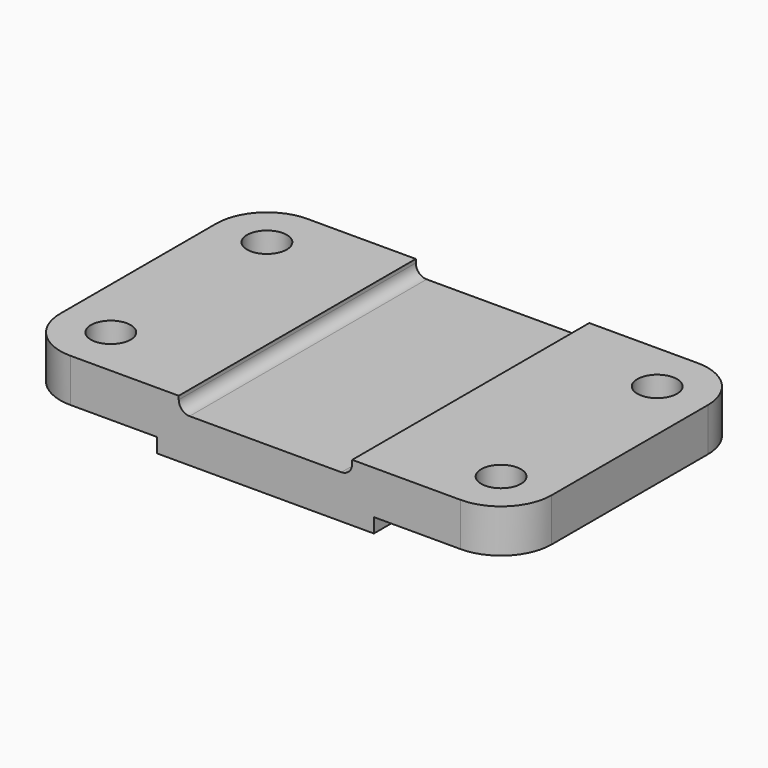
from build123d import *

# Parameters (mm, degrees)
F0_R     = 5.5
F1_DEPTH = 16
F2_W     = 38
F2_H     = 4
F3_DEPTH = 82.001
F5_DEPTH = 82.001


with BuildPart() as f1:
    # F0 (on Top) → F1 (new body)
    with BuildSketch(Plane.XY):
        with BuildLine():
            Line((-54, 0), (0, 0))
            Line((0, 0), (0, 82))
            Line((0, 82), (-54, 82))
            ThreePointArc((-54, 82), (-63.899495, 77.899495), (-68, 68))
            Line((-68, 68), (-68, 14))
            ThreePointArc((-68, 14), (-63.899495, 4.100505), (-54, 0))
        make_face()
        with Locations((-54, 14)):
            Circle(F0_R, mode=Mode.SUBTRACT)
        with Locations((-54, 68)):
            Circle(F0_R, mode=Mode.SUBTRACT)
    extrude(amount=F1_DEPTH)

    # F2 (on Front) → F3 (cut, through all)
    with BuildSketch(Plane.XZ):
        with Locations((-49, 2)):
            Rectangle(F2_W, F2_H)
    extrude(amount=-F3_DEPTH, mode=Mode.SUBTRACT)

    # F4 (on Front) → F5 (cut, through all)
    with BuildSketch(Plane.XZ):
        with BuildLine():
            Line((0, 16), (-24, 16))
            Line((-24, 16), (-24, 15))
            ThreePointArc((-24, 15), (-23.12132, 12.87868), (-21, 12))
            Line((-21, 12), (0, 12))
            Line((0, 12), (0, 16))
        make_face()
    extrude(amount=-F5_DEPTH, mode=Mode.SUBTRACT)

    # F6: F1 across plane


with BuildPart() as f1_1:
    add(f1.part)
    add(f1.part.mirror(Plane.YZ))


solid = f1_1.part
